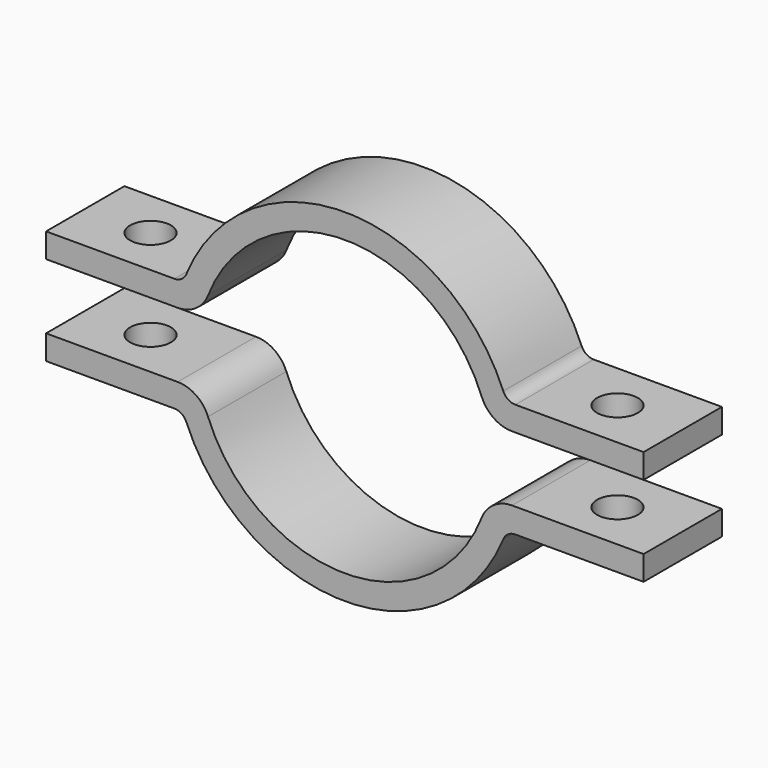
from build123d import *

# Parameters (mm, degrees)
F1_DEPTH = 19.05
F2_R     = 5.08
F3_R     = 12.7
F4_R     = 7.9375
F5_DEPTH = 50.8
F6_R     = 7.9375
F7_DEPTH = 25.4


with BuildPart() as f1:
    # F0 (on Front) → F1 (new body, symmetric)
    with BuildSketch(Plane.XZ):
        with BuildLine():
            ThreePointArc((55.721024, -12.7), (0, -57.15), (-55.721024, -12.7))
            Line((-55.721024, -12.7), (-65.454302, -12.7))
            Line((-65.454302, -12.7), (-116.254302, -12.7))
            Line((-116.254302, -12.7), (-116.254302, -22.225))
            Line((-116.254302, -22.225), (-62.861793, -22.225))
            ThreePointArc((-62.861793, -22.225), (0, -66.675), (62.861793, -22.225))
            Line((62.861793, -22.225), (116.254302, -22.225))
            Line((116.254302, -22.225), (116.254302, -12.7))
            Line((116.254302, -12.7), (65.454302, -12.7))
            Line((65.454302, -12.7), (55.721024, -12.7))
        make_face()
        with BuildLine():
            Line((-116.254302, 12.7), (-65.454302, 12.7))
            Line((-65.454302, 12.7), (-55.721024, 12.7))
            ThreePointArc((-55.721024, 12.7), (0, 57.15), (55.721024, 12.7))
            Line((55.721024, 12.7), (65.454302, 12.7))
            Line((65.454302, 12.7), (116.254302, 12.7))
            Line((116.254302, 12.7), (116.254302, 22.225))
            Line((116.254302, 22.225), (62.861793, 22.225))
            ThreePointArc((62.861793, 22.225), (0, 66.675), (-62.861793, 22.225))
            Line((-62.861793, 22.225), (-116.254302, 22.225))
            Line((-116.254302, 22.225), (-116.254302, 12.7))
        make_face()
    extrude(amount=F1_DEPTH, both=True)

    # F2
    f2_edges = [f1.edges().sort_by_distance(p)[0] for p in [
        (-62.861793, 0, 22.225),
        (62.861793, 0, 22.225),
        (62.861793, 0, -22.225),
        (-62.861793, 0, -22.225),
    ]]
    fillet(f2_edges, radius=F2_R)

    # F3
    f3_edges = [f1.edges().sort_by_distance(p)[0] for p in [
        (-55.721024, 0, 12.7),
        (55.721024, 0, 12.7),
        (55.721024, 0, -12.7),
        (-55.721024, 0, -12.7),
    ]]
    fillet(f3_edges, radius=F3_R)

    # F4 (on face) → F5 (cut, symmetric)
    with BuildSketch(Plane.XY.offset(22.225)):
        with Locations((-90.854302, 0)):
            Circle(F4_R)
        with Locations((90.854302, 0)):
            Circle(F4_R)
    extrude(amount=F5_DEPTH, both=True, mode=Mode.SUBTRACT)

    # F6 (on face) → F7 (cut)
    with BuildSketch(Plane(origin=(0, 0, -22.225), x_dir=(1, 0, 0), z_dir=(0, 0, -1))):
        with Locations((90.854302, 0)):
            Circle(F6_R)
        with Locations((-90.854302, 0)):
            Circle(F6_R)
    extrude(amount=-F7_DEPTH, mode=Mode.SUBTRACT)


solid = f1.part
